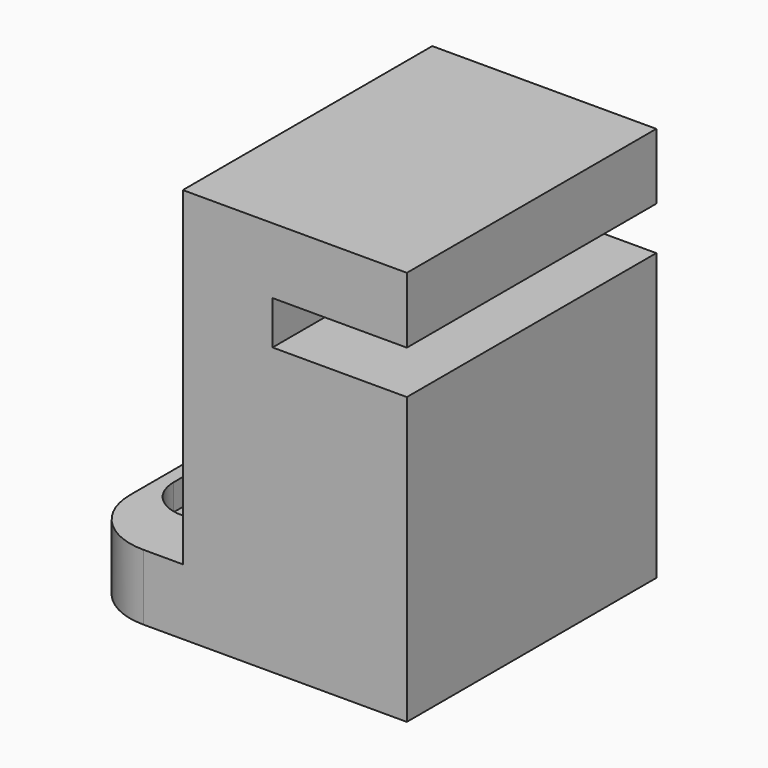
from build123d import *

# Parameters (mm, degrees)
SKETCH010_W     = 25
SKETCH010_H     = 23.658539
PAD002_DEPTH    = 30
SKETCH011_W     = 17.384644
SKETCH011_H     = 39.730011
POCKET008_DEPTH = 25
SKETCH012_R     = 1.5
POCKET009_DEPTH = 5.001
POCKET010_DEPTH = 2
SKETCH014_W     = 12.358228
SKETCH014_H     = 3.3
POCKET011_DEPTH = 23.659539
FILLET004_R     = 5


with BuildPart() as part:
    # Sketch010 → Pad002 (new body)
    with BuildSketch(Plane.XY):
        with Locations((-262.5, -338.263442)):
            Rectangle(SKETCH010_W, SKETCH010_H)
    extrude(amount=PAD002_DEPTH)

    # Sketch011 (on Face6 of Pad002) → Pocket008 (cut)
    with BuildSketch(Plane.XY.offset(30)):
        with Locations((-275.692322, -336.624282)):
            Rectangle(SKETCH011_W, SKETCH011_H)
    extrude(amount=-POCKET008_DEPTH, mode=Mode.SUBTRACT)

    # Sketch012 (on Face6 of Pocket008) → Pocket009 (cut, through all)
    with BuildSketch(Plane.XY.offset(5)):
        with Locations((-271, -334.320353)):
            Circle(SKETCH012_R)
        with Locations((-271, -342.206532)):
            Circle(SKETCH012_R)
    extrude(amount=-POCKET009_DEPTH, mode=Mode.SUBTRACT)

    # Sketch013 (on Face6 of Pocket009) → Pocket010 (cut)
    with BuildSketch(Plane.XY.offset(5)):
        with BuildLine():
            ThreePointArc((-268, -334.320353), (-271, -331.320353), (-274, -334.320353))
            Line((-274, -334.320353), (-274, -342.206532))
            ThreePointArc((-274, -342.206532), (-271, -345.206532), (-268, -342.206532))
            Line((-268, -334.320353), (-268, -342.206532))
        make_face()
    extrude(amount=-POCKET010_DEPTH, mode=Mode.SUBTRACT)

    # Sketch014 (on Face1 of Pocket010) → Pocket011 (cut, through all)
    with BuildSketch(Plane.XZ.offset(350.092712)):
        with Locations((-254.010886, 23.35)):
            Rectangle(SKETCH014_W, SKETCH014_H)
    extrude(amount=-POCKET011_DEPTH, mode=Mode.SUBTRACT)

    # Fillet004
    fillet004_edges = [part.edges().sort_by_distance(p)[0] for p in [
        (-275, -326.434173, 2.5),
        (-275, -350.092712, 2.5),
    ]]
    fillet(fillet004_edges, radius=FILLET004_R)


with BuildPart() as part_1:
    # Body002 placement: moved
    add(part.part.moved(Location((0, 0, 3))))


solid = part_1.part
